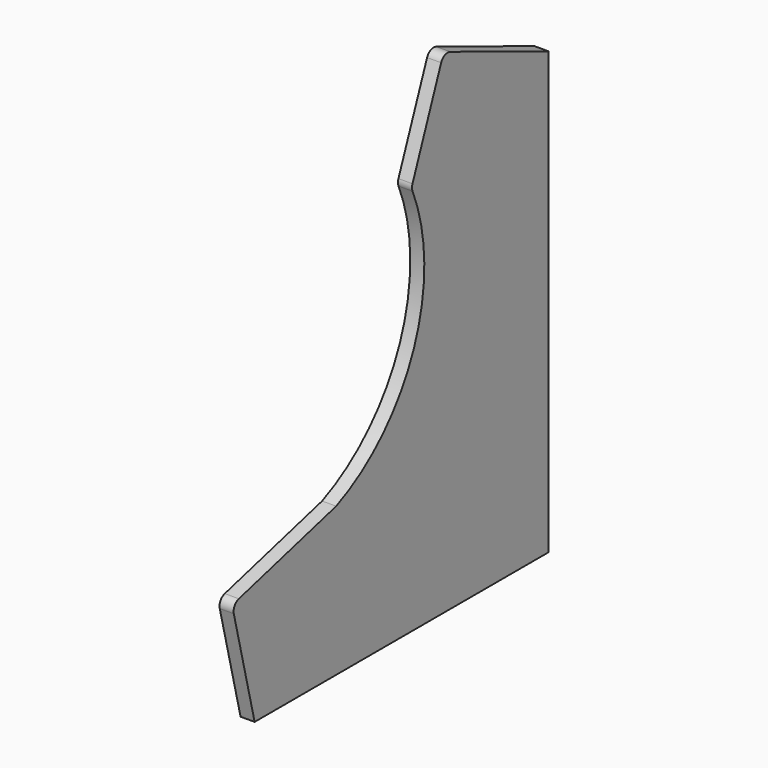
from build123d import *

# Parameters (mm, degrees)
F1_DEPTH = 16


with BuildPart() as f1:
    # F0 (on Right) → F1 (new body)
    with BuildSketch(Plane.YZ):
        with BuildLine():
            Line((-209, -251), (209, -251))
            Line((209, -251), (209, 251))
            Line((209, 251), (69.384002, 307.221207))
            ThreePointArc((69.384002, 307.221207), (61.677598, 307.122789), (56.329926, 301.572947))
            Line((56.329926, 301.572947), (15.564362, 196.861402))
            ThreePointArc((15.564362, 196.861402), (14.884474, 193.066175), (15.690976, 189.295824))
            ThreePointArc((15.690976, 189.295824), (17.563219, 31.125044), (-93, -82))
            Line((-93, -82), (-231.486458, -118.493053))
            ThreePointArc((-231.486458, -118.493053), (-237.536442, -123.056867), (-238.648457, -130.553142))
            Line((-238.648457, -130.553142), (-209, -251))
        make_face()
    extrude(amount=F1_DEPTH)


solid = f1.part
